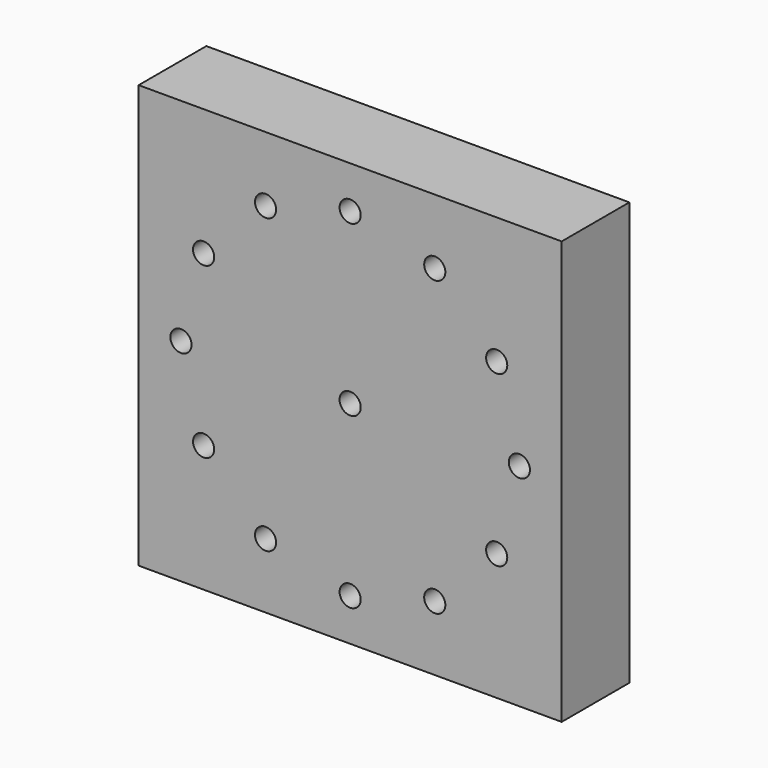
from build123d import *

# Parameters (mm, degrees)
F0_W     = 127
F0_H     = 127
F0_R     = 3.175
F1_DEPTH = 25.4


with BuildPart() as f1:
    # F0 (on Front) → F1 (new body)
    with BuildSketch(Plane.XZ):
        Rectangle(F0_W, F0_H)
        with Locations((-25.4, -43.994091)):
            Circle(F0_R, mode=Mode.SUBTRACT)
        with Locations((-43.994091, -25.4)):
            Circle(F0_R, mode=Mode.SUBTRACT)
        with Locations((0, -50.8)):
            Circle(F0_R, mode=Mode.SUBTRACT)
        with Locations((25.4, -43.994091)):
            Circle(F0_R, mode=Mode.SUBTRACT)
        with Locations((43.994091, -25.4)):
            Circle(F0_R, mode=Mode.SUBTRACT)
        with Locations((-50.8, 0)):
            Circle(F0_R, mode=Mode.SUBTRACT)
        with Locations((-43.994091, 25.4)):
            Circle(F0_R, mode=Mode.SUBTRACT)
        with Locations((-25.4, 43.994091)):
            Circle(F0_R, mode=Mode.SUBTRACT)
        Circle(F0_R, mode=Mode.SUBTRACT)
        with Locations((50.8, 0)):
            Circle(F0_R, mode=Mode.SUBTRACT)
        with Locations((43.994091, 25.4)):
            Circle(F0_R, mode=Mode.SUBTRACT)
        with Locations((25.4, 43.994091)):
            Circle(F0_R, mode=Mode.SUBTRACT)
        with Locations((0, 50.8)):
            Circle(F0_R, mode=Mode.SUBTRACT)
    extrude(amount=F1_DEPTH)


solid = f1.part
